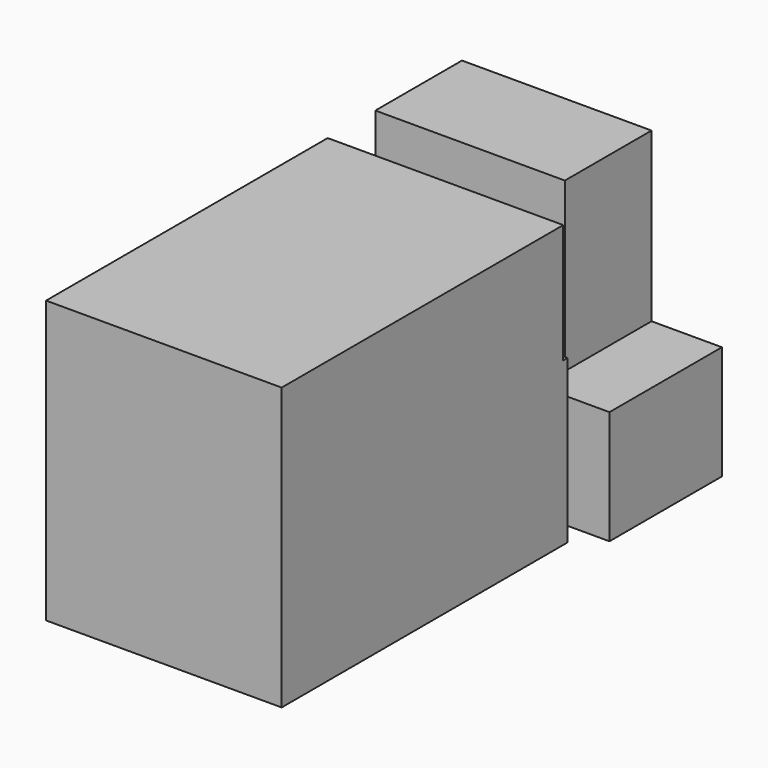
from build123d import *

# Parameters (mm, degrees)
F1_W     = 1104.9
F1_H     = 1676.4
F2_DEPTH = 762
F3_W     = 1104.9
F3_H     = 1651
F4_DEPTH = 558.8
F5_W     = 1219.2
F5_H     = 659.264597
F6_DEPTH = 533.4
F7_W     = 889
F7_H     = 508
F8_DEPTH = 787.4


with BuildPart() as f2:
    # F1 (on face) → F2 (new body)
    with BuildSketch(Plane.XY):
        with Locations((552.45, 838.2)):
            Rectangle(F1_W, F1_H)
    extrude(amount=F2_DEPTH)

    # F3 (on face) → F4 (join)
    with BuildSketch(Plane.XY.offset(762)):
        with Locations((552.45, 825.5)):
            Rectangle(F3_W, F3_H)
    extrude(amount=F4_DEPTH)


with BuildPart() as f6:
    # F5 (on face) → F6 (new body)
    with BuildSketch(Plane.XY):
        with Locations((609.6, 2108.767701)):
            Rectangle(F5_W, F5_H)
    extrude(amount=F6_DEPTH)

    # F7 (on face) → F8 (join)
    with BuildSketch(Plane.XY.offset(533.4)):
        with Locations((444.5, 2184.4)):
            Rectangle(F7_W, F7_H)
    extrude(amount=F8_DEPTH)


solid = Compound([f2.part, f6.part])
